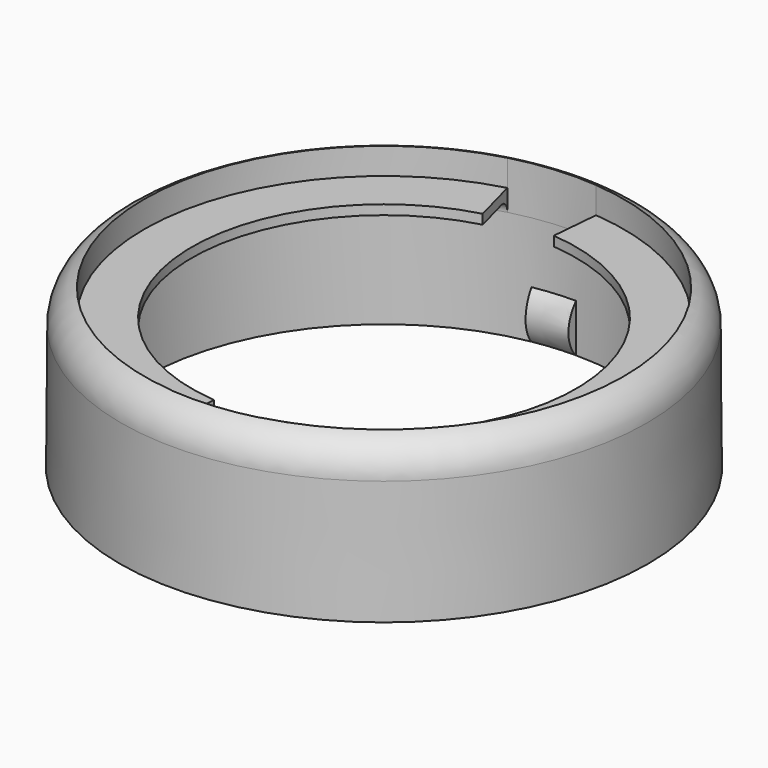
from build123d import *

# Parameters (mm, degrees)
F2_R           = 12.6873
F3_DEPTH       = 1.524
F4_R           = 10.16
F5_DEPTH       = 25.4
F7_ANGLE       = 10
F8_W           = 12.7
F8_H           = 2.5441443902
F9_ANGLE_BACK  = 5
F9_ANGLE       = 20
F10_W          = 12.7
F10_H          = 2.5441443902
F11_ANGLE_BACK = 5
F11_ANGLE      = 20


with BuildPart() as f1:
    # F0 (on Front) → F1 (revolve)
    with BuildSketch(Plane.XZ):
        with BuildLine():
            Line((-13.97, 0), (-12.7, 0))
            Line((-12.7, 0), (-12.7, 5.76834))
            ThreePointArc((-12.7, 5.76834), (-12.5140128061, 6.2173528061), (-12.065, 6.40334))
            Line((-12.065, 6.40334), (0, 6.40334))
            Line((0, 6.40334), (0, 8.43534))
            Line((0, 8.43534), (-12.0142573769, 8.43534))
            ThreePointArc((-12.0142573769, 8.43534), (-13.3560582498, 7.8825956776), (-13.9192, 6.5451252153))
            Line((-13.9192, 6.5451252153), (-13.97, 0))
        make_face()
    revolve(axis=Axis((0, 0, 7.41934), (0, 0, 1)))

    # F2 (on face) → F3 (cut)
    with BuildSketch(Plane.XY.offset(8.43534)):
        Circle(F2_R)
    extrude(amount=-F3_DEPTH, mode=Mode.SUBTRACT)

    # F4 (on face) → F5 (cut)
    with BuildSketch(Plane.XY.offset(6.91134)):
        Circle(F4_R)
    extrude(amount=-F5_DEPTH, mode=Mode.SUBTRACT)

    # F6 (on Right) → F7 (revolve)
    with BuildSketch(Plane.YZ):
        with BuildLine():
            add(Edge.make_bspline(
                [(-12.7, 2.54), (-12.3650313684, 2.0936619038), (-12.0236620945, 1.3279431517), (-12.3556444426, 0.3304517928), (-12.7, 0)],
                knots=[0, 0, 0, 0, 0.5, 1, 1, 1, 1], degree=3))
            Line((-12.7, 2.54), (-12.7, 0))
        make_face()
        with BuildLine():
            Line((12.7, 0), (12.7, 2.54))
            add(Edge.make_bspline(
                [(12.7, 2.54), (12.4156702788, 2.2468428115), (11.9749216364, 1.2698282605), (12.4024864485, 0.2935006674), (12.7, 0)],
                knots=[0, 0, 0, 0, 0.5, 1, 1, 1, 1], degree=3))
        make_face()
    revolve(axis=Axis((0, 0, 2.8421400978), (0, 0, 1)), revolution_arc=F7_ANGLE)

    # F8 (on Right) → F9 (revolve, cut)
    with BuildSketch(Plane.YZ, mode=Mode.PRIVATE) as f9_sk:
        with Locations((6.35, 7.0404121951)):
            Rectangle(F8_W, F8_H)
    revolve(f9_sk.sketch.rotate(Axis((0, 0, 7.0404121951), (0, 0, 1)), -F9_ANGLE_BACK), axis=Axis((0, 0, 7.0404121951), (0, 0, 1)), revolution_arc=F9_ANGLE, mode=Mode.SUBTRACT)

    # F10 (on Right) → F11 (revolve, cut)
    with BuildSketch(Plane.YZ, mode=Mode.PRIVATE) as f11_sk:
        with Locations((-6.35, 7.0404121951)):
            Rectangle(F10_W, F10_H)
    revolve(f11_sk.sketch.rotate(Axis((0, 0, 7.0404121951), (0, 0, 1)), -F11_ANGLE_BACK), axis=Axis((0, 0, 7.0404121951), (0, 0, 1)), revolution_arc=F11_ANGLE, mode=Mode.SUBTRACT)


solid = f1.part
